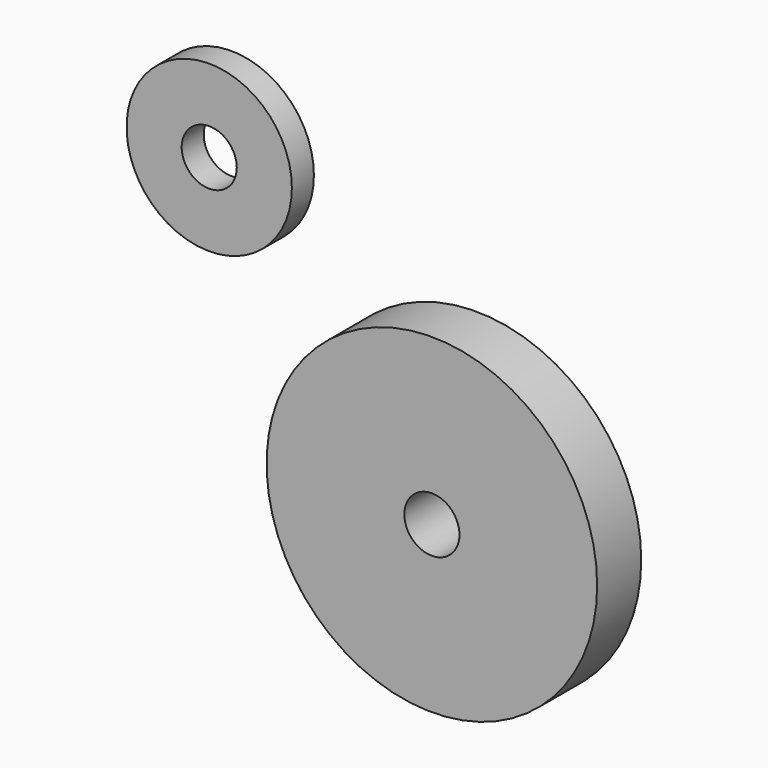
from build123d import *

# Parameters (mm, degrees)
F1_R     = 19.05
F1_R_2   = 6.35
F2_DEPTH = 6.35
F0_R     = 38.1
F0_R_2   = 6.35
F3_DEPTH = 12.7


with BuildPart() as f2:
    # F1 (on Front) → F2 (new body)
    with BuildSketch(Plane.XZ):
        with Locations((-56.412581, 53.577032)):
            Circle(F1_R)
        with Locations((-56.412581, 53.577032)):
            Circle(F1_R_2, mode=Mode.SUBTRACT)
    extrude(amount=F2_DEPTH)


with BuildPart() as f3:
    # F0 (on Front) → F3 (new body)
    with BuildSketch(Plane.XZ):
        Circle(F0_R)
        Circle(F0_R_2, mode=Mode.SUBTRACT)
    extrude(amount=F3_DEPTH)


solid = Compound([f2.part, f3.part])
